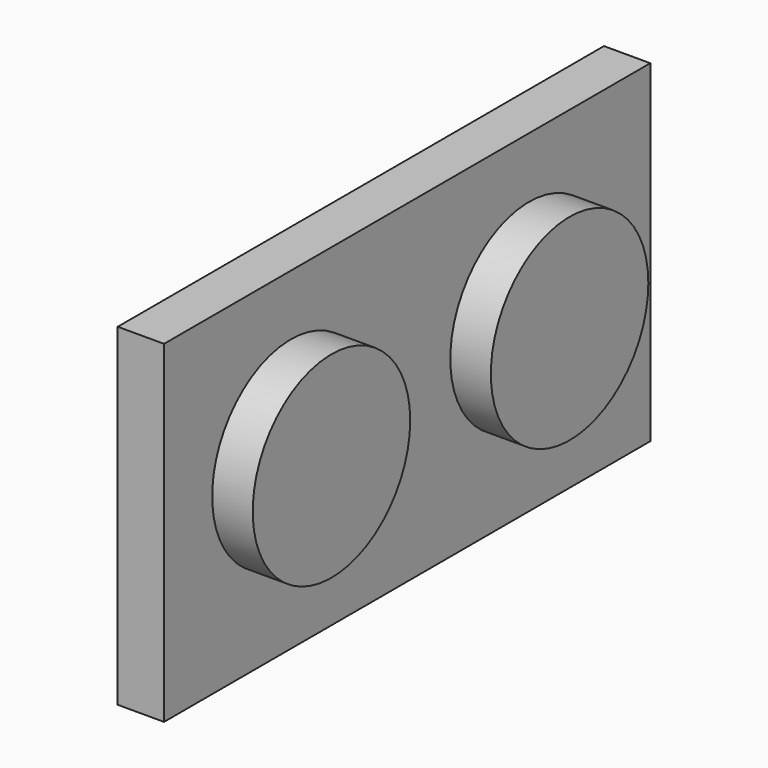
from build123d import *

# Parameters (mm, degrees)
F0_W     = 42
F0_H     = 23
F1_DEPTH = 3.2
F2_R     = 6.801578
F3_DEPTH = 6


with BuildPart() as f1:
    # F0 (on Right) → F1 (new body)
    with BuildSketch(Plane.YZ):
        with Locations((-4.014331, 8.529418)):
            Rectangle(F0_W, F0_H)
    extrude(amount=F1_DEPTH)

    # F2 (on Right) → F3 (join)
    with BuildSketch(Plane.YZ):
        with Locations((-14.052913, 9.053115)):
            Circle(F2_R)
        with Locations((6.515576, 9.053115)):
            Circle(F2_R)
    extrude(amount=F3_DEPTH)


solid = f1.part
